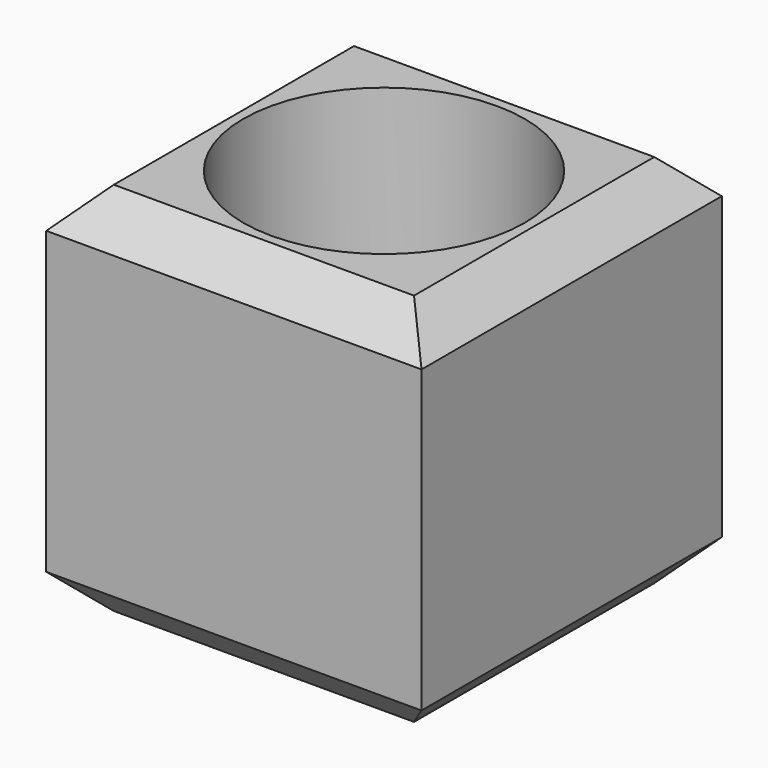
from build123d import *

# Parameters (mm, degrees)
F0_W     = 254
F0_H     = 254
F1_DEPTH = 254
F2_R     = 95.25
F3_DEPTH = 254.001
F4_SIZE  = 25.4


with BuildPart() as f1:
    # F0 (on Top) → F1 (new body)
    with BuildSketch(Plane.XY):
        with Locations((127, -127)):
            Rectangle(F0_W, F0_H)
    extrude(amount=F1_DEPTH)

    # F2 (on face) → F3 (cut, through all)
    with BuildSketch(Plane.XY.offset(254)):
        with Locations((127, -127)):
            Circle(F2_R)
    extrude(amount=-F3_DEPTH, mode=Mode.SUBTRACT)

    # F4
    f4_edges = [f1.edges().sort_by_distance(p)[0] for p in [
        (127, -254, 254),
        (254, -127, 254),
        (127, 0, 254),
        (0, -127, 254),
        (254, -127, 0),
        (127, -254, 0),
        (127, 0, 0),
        (0, -127, 0),
    ]]
    chamfer(f4_edges, length=F4_SIZE)


solid = f1.part
